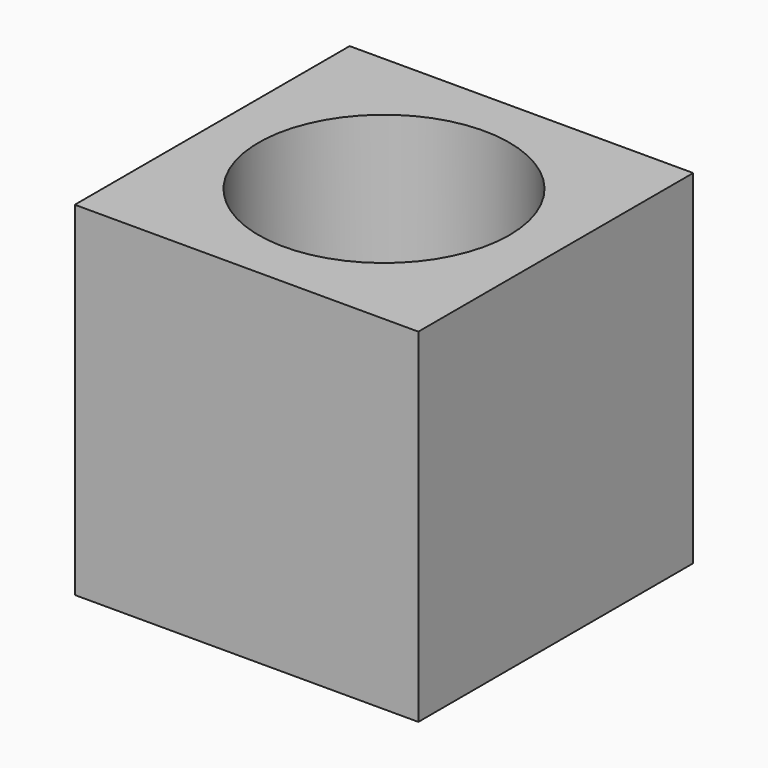
from build123d import *

# Parameters (mm, degrees)
F0_W     = 100
F0_H     = 100
F1_DEPTH = 50
F2_R     = 36.4914708522
F3_DEPTH = 100.001


with BuildPart() as f1:
    # F0 (on Front) → F1 (new body, symmetric)
    with BuildSketch(Plane.XZ):
        Rectangle(F0_W, F0_H)
    extrude(amount=F1_DEPTH, both=True)

    # F2 (on face) → F3 (cut, through all)
    with BuildSketch(Plane.XY.offset(50)):
        Circle(F2_R)
    extrude(amount=-F3_DEPTH, mode=Mode.SUBTRACT)


solid = f1.part
